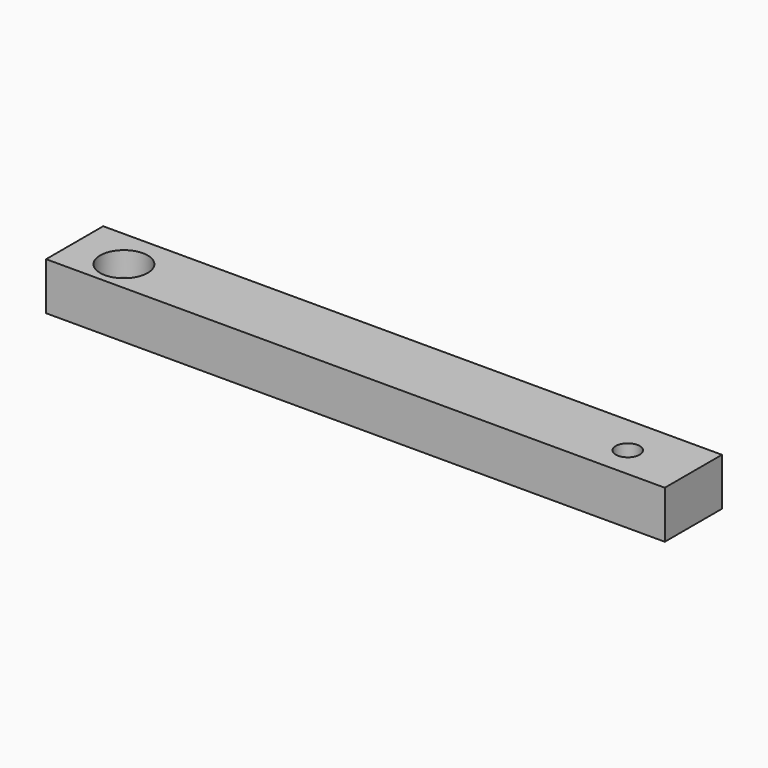
from build123d import *

# Parameters (mm, degrees)
F0_W     = 330.2
F0_H     = 38.1
F2_DEPTH = 12.7
F1_R     = 12.7
F1_R_2   = 6.35
F3_DEPTH = 12.7


with BuildPart() as f2:
    # F0 (on Top) → F2 (new body, symmetric)
    with BuildSketch(Plane.XY):
        with Locations((1.8771, 2.322538)):
            Rectangle(F0_W, F0_H)
    extrude(amount=F2_DEPTH, both=True)

    # F1 (on Top) → F3 (cut, symmetric)
    with BuildSketch(Plane.XY):
        with Locations((-135.067344, 0)):
            Circle(F1_R)
        with Locations((133.833691, 0)):
            Circle(F1_R_2)
    extrude(amount=F3_DEPTH, both=True, mode=Mode.SUBTRACT)


solid = f2.part
